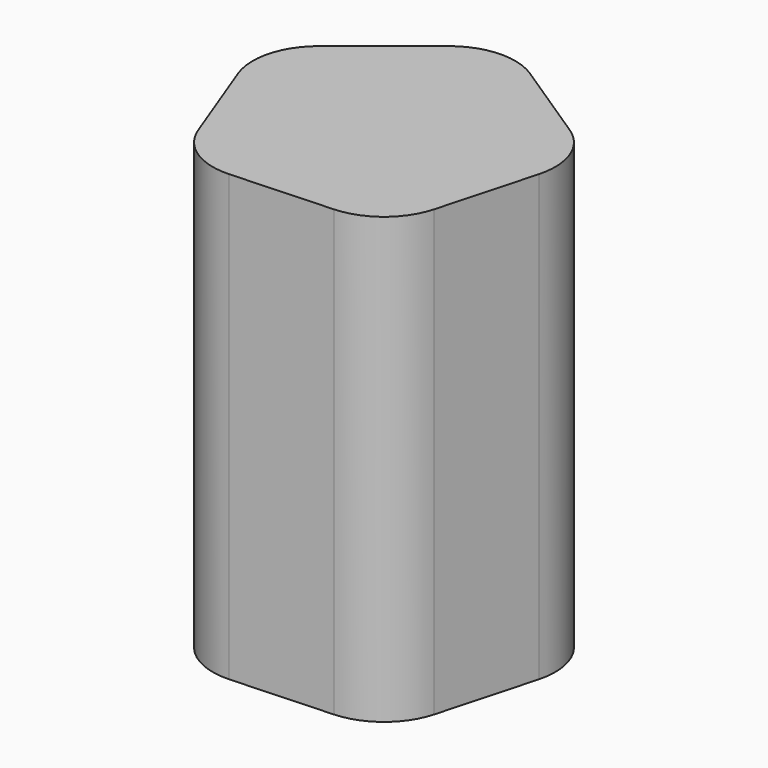
from build123d import *

# Parameters (mm, degrees)
F1_DEPTH = 50.8


with BuildPart() as f1:
    # F0 (on Top) → F1 (new body)
    with BuildSketch(Plane.XY):
        with BuildLine():
            Line((-45.975181, 28.836208), (-34.458694, 29.371214))
            ThreePointArc((-34.458694, 29.371214), (-30.05213, 31.032784), (-27.46379, 34.967137))
            Line((-27.46379, 34.967137), (-24.413821, 46.085292))
            ThreePointArc((-24.413821, 46.085292), (-24.632365, 50.789637), (-27.574315, 54.467076))
            Line((-27.574315, 54.467076), (-37.205817, 60.803468))
            ThreePointArc((-37.205817, 60.803468), (-41.747449, 62.049343), (-46.154014, 60.387773))
            Line((-46.154014, 60.387773), (-55.156579, 53.185723))
            ThreePointArc((-55.156579, 53.185723), (-57.744918, 49.251371), (-57.526374, 44.547026))
            Line((-57.526374, 44.547026), (-53.458763, 33.759522))
            ThreePointArc((-53.458763, 33.759522), (-50.516813, 30.082084), (-45.975181, 28.836208))
        make_face()
    extrude(amount=F1_DEPTH)


solid = f1.part
